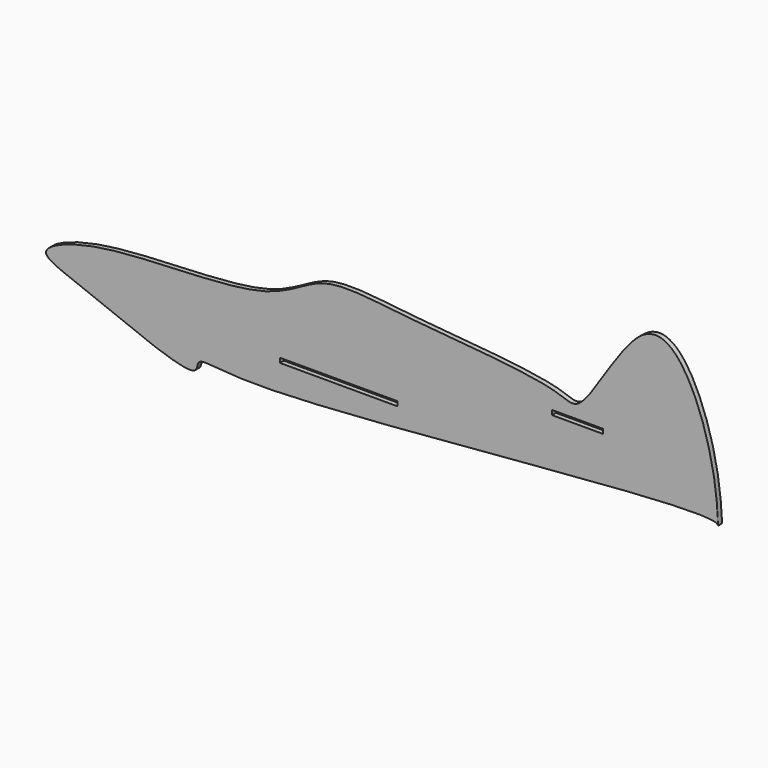
from build123d import *

# Parameters (mm, degrees)
F0_W     = 38.1
F0_H     = 1.4732
F0_W_2   = 16.51
F1_DEPTH = 1.5875


with BuildPart() as f1:
    # F0 (on Front) → F1 (new body)
    with BuildSketch(Plane.XZ):
        with BuildLine():
            add(Edge.make_bspline(
                [(0, -13.539640737), (45.0586353666, -10.1128233368), (108.6915810439, -3.3622056642), (108.9671671069, -8.8236907827), (108.6347077212, 8.8016587489), (98.5057848247, 38.6719265885), (81.6173451851, 44.0290765576), (64.8631794579, 8.6905932022), (55.946269091, 16.1526326679), (6.5748353042, 18.9982404723), (-20.1628128761, 23.5123493733), (-29.7920707719, 14.2925773529), (-38.1836146116, 11.9580086321)],
                knots=[0.3914081298, 0.3914081298, 0.3914081298, 0.3914081298, 0.5043657104, 0.5164710968, 0.5632242288, 0.6363625602, 0.6798467986, 0.7522608922, 0.7875843171, 0.8766354658, 0.9426146437, 1, 1, 1, 1], degree=3))
            add(Edge.make_bspline(
                [(-38.1836146116, 11.9580086321), (-51.9375995601, 8.1315824511), (-90.1181704799, 10.3712440235), (-115.5159682605, -0.3164260115), (-96.0389185045, -6.1677211534), (-59.7494629287, -22.4559158501), (-60.7593636117, -13.1620926773), (-51.5429837396, -16.8974810474), (-17.2433635473, -14.8510399341), (0, -13.539640737)],
                knots=[0, 0, 0, 0, 0.0940562717, 0.1480015567, 0.1963232523, 0.2737604273, 0.295287182, 0.3481807082, 0.3914081298, 0.3914081298, 0.3914081298, 0.3914081298], degree=3))
        make_face()
        with Locations((-14.3961331367, -6.2590192747)):
            Rectangle(F0_W, F0_H, mode=Mode.SUBTRACT)
        with Locations((63.2037695098, 7.5649900619)):
            Rectangle(F0_W_2, F0_H, mode=Mode.SUBTRACT)
    extrude(amount=F1_DEPTH)


solid = f1.part
